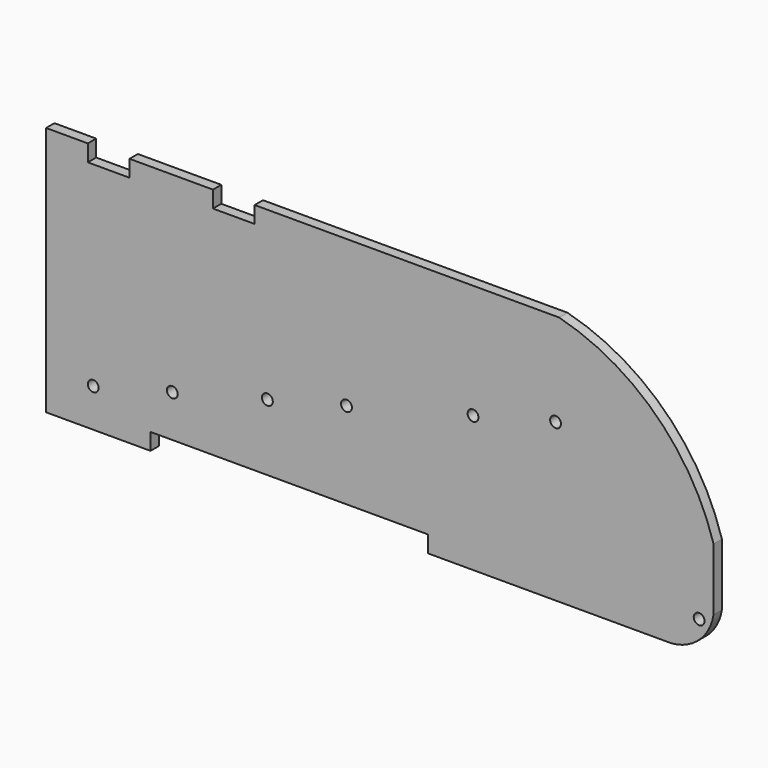
from build123d import *

# Parameters (mm, degrees)
F0_R     = 1.651
F1_DEPTH = 3.175
F2_R     = 1.651
F3_DEPTH = 25.4


with BuildPart() as f1:
    # F0 (on Front) → F1 (new body)
    with BuildSketch(Plane.XZ):
        with BuildLine():
            Line((65.389104, 5.08), (65.389104, 0))
            Line((65.389104, 0), (111.109104, 0))
            Line((111.109104, 0), (134.019904, 0))
            Line((134.019904, 0), (139.049104, 0))
            Line((139.049104, 0), (139.477193, 0))
            ThreePointArc((139.477193, 0), (148.009982, 3.664074), (152.4, 11.847085))
            Line((152.4, 11.847085), (152.4, 30.797511))
            ThreePointArc((152.4, 30.797511), (134.859224, 59.672781), (105.392106, 76.2))
            Line((105.392106, 76.2), (37.521991, 76.2))
            Line((37.521991, 76.2), (12.7, 76.2))
            Line((12.7, 76.2), (12.7, 71.12))
            Line((12.7, 71.12), (0, 71.12))
            Line((0, 71.12), (0, 76.2))
            Line((0, 76.2), (-25.4, 76.2))
            Line((-25.4, 76.2), (-25.4, 71.12))
            Line((-25.4, 71.12), (-38.1, 71.12))
            Line((-38.1, 71.12), (-38.1, 76.2))
            Line((-38.1, 76.2), (-50.8, 76.2))
            Line((-50.8, 76.2), (-50.8, 0))
            Line((-50.8, 0), (-19.015096, 0))
            Line((-19.015096, 0), (-19.015096, 5.08))
            Line((-19.015096, 5.08), (65.389104, 5.08))
        make_face()
        with Locations((-36.449, 11.697368)):
            Circle(F0_R, mode=Mode.SUBTRACT)
        with Locations((-12.364374, 17.884336)):
            Circle(F0_R, mode=Mode.SUBTRACT)
        with Locations((16.566699, 25.316282)):
            Circle(F0_R, mode=Mode.SUBTRACT)
        with Locations((40.651325, 31.503251)):
            Circle(F0_R, mode=Mode.SUBTRACT)
        with Locations((79.176886, 41.399872)):
            Circle(F0_R, mode=Mode.SUBTRACT)
        with Locations((104.294765, 47.852268)):
            Circle(F0_R, mode=Mode.SUBTRACT)
    extrude(amount=F1_DEPTH)

    # F2 (on face) → F3 (cut)
    with BuildSketch(Plane.XZ.offset(3.175)):
        with Locations((148.009982, 9.237001)):
            Circle(F2_R)
    extrude(amount=-F3_DEPTH, mode=Mode.SUBTRACT)


solid = f1.part
